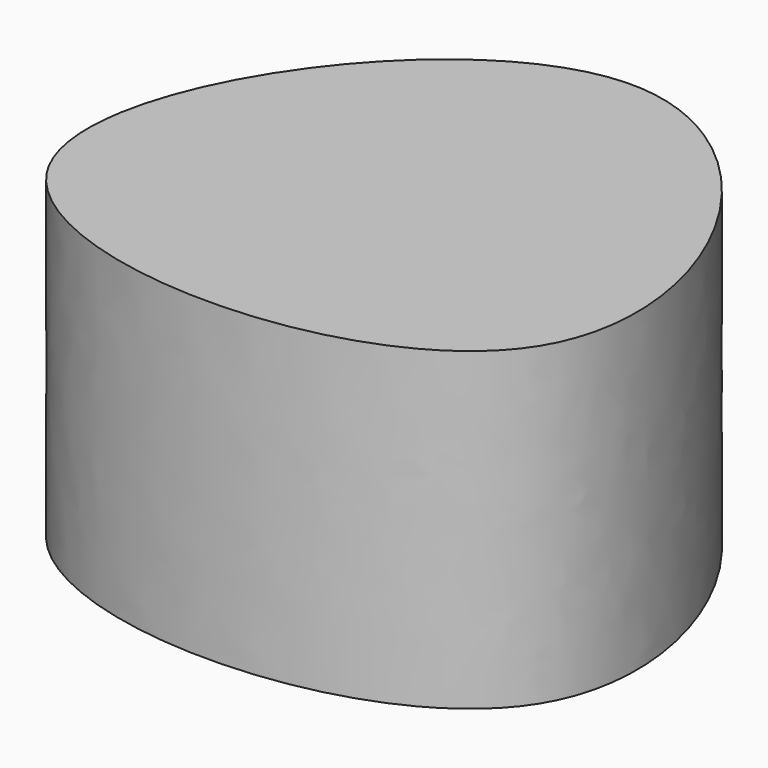
from build123d import *

# Parameters (mm, degrees)
F1_DEPTH = 8.4582


with BuildPart() as f1:
    # F0 (on Top) → F1 (new body)
    with BuildSketch(Plane.XY):
        with BuildLine():
            add(Edge.make_bspline(
                [(0, 0), (-1.902699689, 3.5794043672), (7.7231333983, 17.4975512421), (19.2734652383, -3.7004258732), (1.9235253333, -3.6185820696), (0, 0)],
                knots=[0, 0, 0, 0, 0.3359048537, 0.6604185624, 1, 1, 1, 1], degree=3))
        make_face()
    extrude(amount=F1_DEPTH)


solid = f1.part
